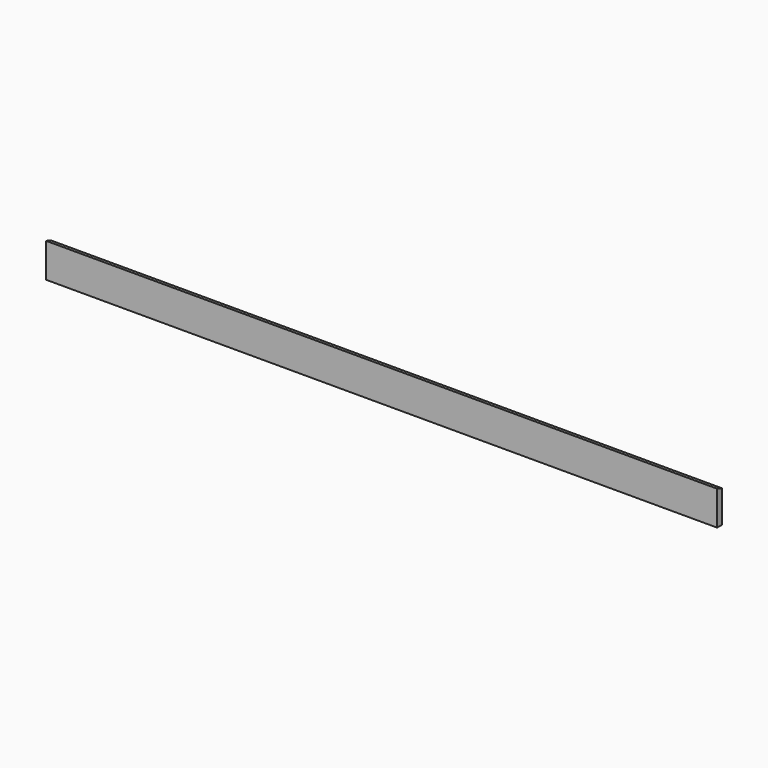
from build123d import *

# Parameters (mm, degrees)
F0_W     = 21
F0_H     = 120
F1_DEPTH = 2350
F3_DEPTH = 2350.001


with BuildPart() as f1:
    # F0 (on Right) → F1 (new body)
    with BuildSketch(Plane.YZ):
        Rectangle(F0_W, F0_H)
    extrude(amount=F1_DEPTH)

    # F2 (on face) → F3 (cut, through all)
    with BuildSketch(Plane.YZ.offset(2350)):
        Polygon((10.5, 60), (-10.5, 60), (10.5, 53), align=None)
    extrude(amount=-F3_DEPTH, mode=Mode.SUBTRACT)


solid = f1.part
